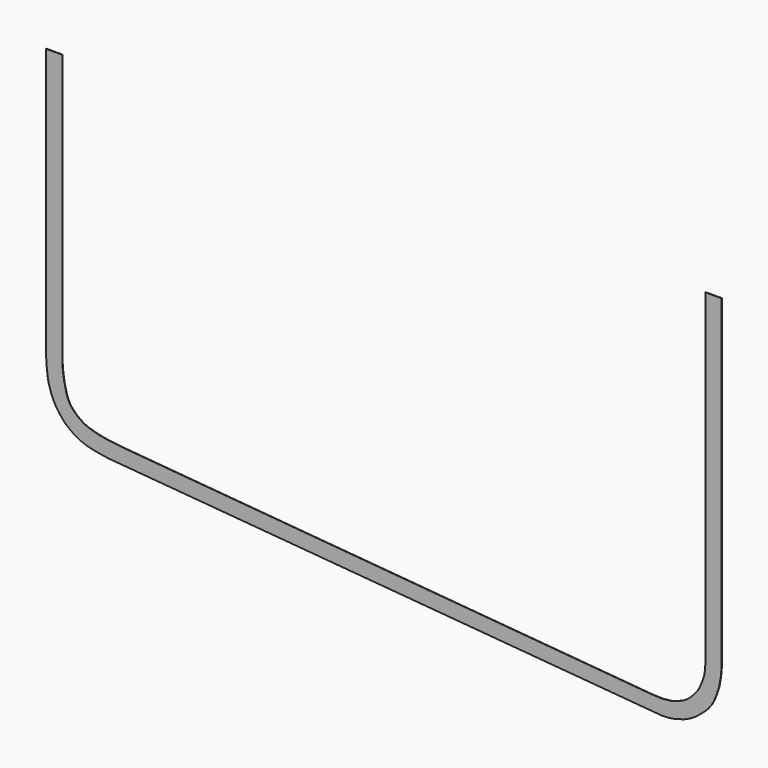
from build123d import *

# Parameters (mm, degrees)
F1_DEPTH = 4


with BuildPart() as f1:
    # F0 (on Front) → F1 (new body)
    with BuildSketch(Plane.XZ):
        Polygon((-3393.0082, 2041.3853), (-3565.4996, 2041.3853), (-3565.4996, -784.9489), (-3562.4008, -873.2647), (-3550.6914, -986.7011), (-3539.0836, -1053.9095), (-3510.4832, -1144.3081), (-3485.8452, -1202.1185), (-3455.1874, -1258.8113), (-3420.3386, -1308.1889), (-3367.024, -1371.1301), (-3312.5918, -1416.6977), (-3253.5114, -1454.7469), (-3198.0632, -1483.7283), (-3139.9734, -1506.5121), (-3047.2634, -1528.3815), (-2915.0056, -1550.6065), (2936.875, -2041.3853), (3002.7372, -2038.8453), (3068.0152, -2029.4981), (3172.4346, -1999.0181), (3233.5978, -1970.8749), (3291.1288, -1936.0261), (3384.5754, -1858.9117), (3426.587, -1815.6047), (3462.7566, -1767.9035), (3490.3664, -1715.3001), (3512.566, -1659.6995), (3539.0328, -1579.5625), (3557.524, -1474.4573), (3565.4996, -1377.8103), (3565.4996, 2041.3853), (3393.059, 2041.3853), (3393.059, -1425.2829), (3384.9818, -1511.1857), (3361.5122, -1586.3697), (3322.6756, -1669.2753), (3298.825, -1704.8607), (3267.3544, -1742.6559), (3209.4424, -1797.0373), (3164.7892, -1825.5361), (3111.8302, -1848.4215), (3041.4976, -1871.6625), (2944.9522, -1882.4321), (2854.1218, -1880.0953), (-2753.868, -1400.6957), (-2819.1206, -1392.5423), (-2920.6698, -1380.7313), (-3012.313, -1363.2053), (-3110.103, -1336.3067), (-3158.5662, -1315.0723), (-3204.21, -1288.0721), (-3252.0636, -1250.3785), (-3293.5164, -1205.8269), (-3316.9098, -1171.9941), (-3335.3502, -1135.4181), (-3351.53, -1085.7865), (-3373.8312, -991.9335), (-3386.3026, -909.2819), (-3393.0082, -828.1289), align=None)
    extrude(amount=F1_DEPTH)


solid = f1.part
